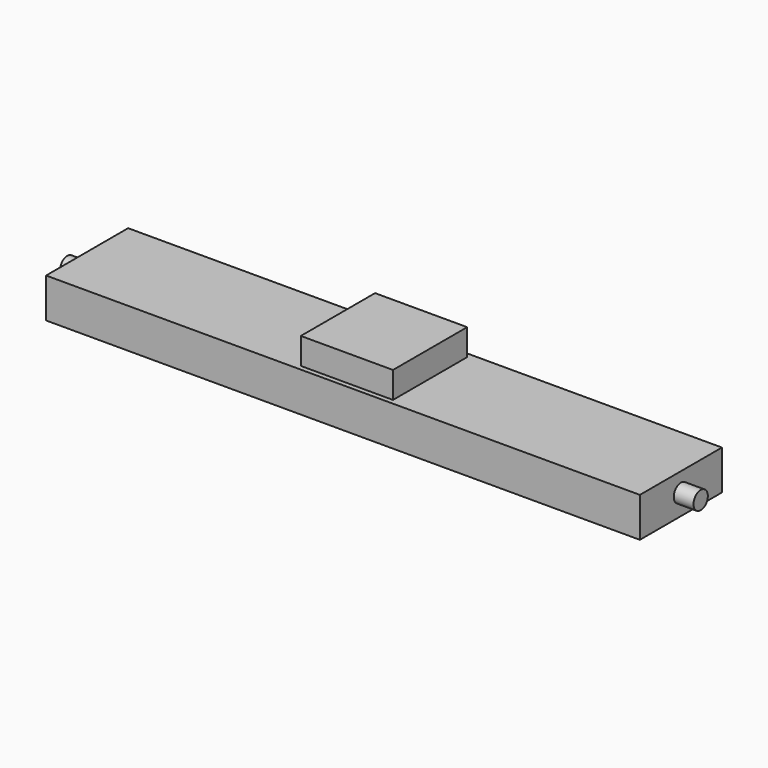
from build123d import *

# Parameters (mm, degrees)
F0_W     = 17.734996
F0_H     = 17.848538
F1_DEPTH = 5.08
F2_W     = 114.3
F2_H     = 19.738256
F3_DEPTH = 7.62
F5_R     = 1.723631
F5_R_2   = 0.03756
F4_R     = 1.723627
F6_DEPTH = 3.81


with BuildPart() as f1:
    # F0 (on Top) → F1 (new body)
    with BuildSketch(Plane.XY):
        Rectangle(F0_W, F0_H)
    extrude(amount=F1_DEPTH)

    # F2 (on Top) → F3 (join)
    with BuildSketch(Plane.XY):
        Rectangle(F2_W, F2_H)
    extrude(amount=-F3_DEPTH)

    # F5 (on face) + F4 (on face) → F6 (join, symmetric)
    with BuildSketch(Plane(origin=(-57.15, 0, 0), x_dir=(0, -1, 0), z_dir=(-1, 0, 0))):
        with Locations((0, -3.627699)):
            Circle(F5_R)
        with Locations((0, -3.627699)):
            Circle(F5_R_2, mode=Mode.SUBTRACT)
    with BuildSketch(Plane.YZ.offset(57.15)):
        with Locations((0, -3.662557)):
            Circle(F4_R)
    extrude(amount=F6_DEPTH, both=True)


solid = f1.part
